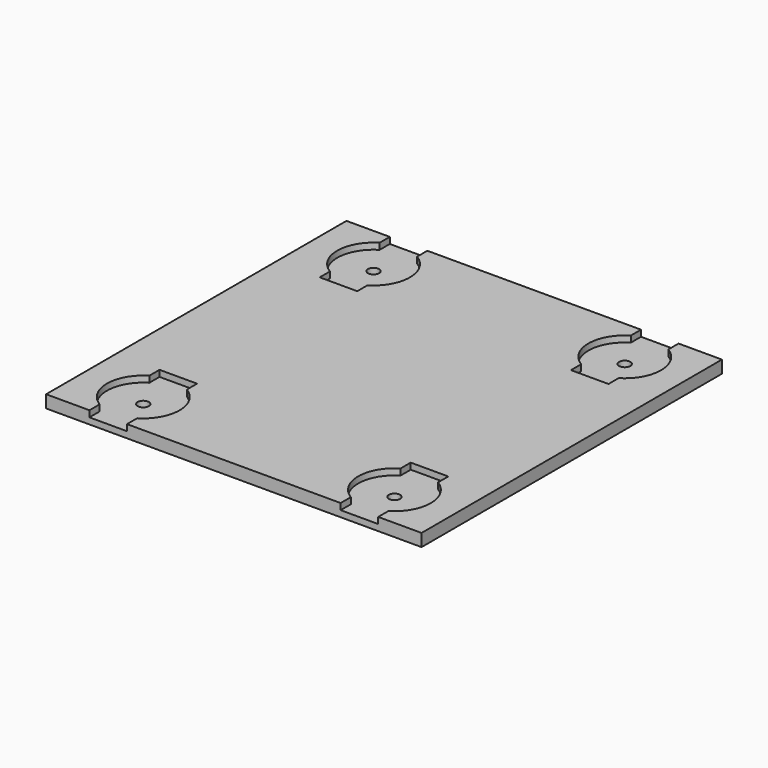
from build123d import *

# Parameters (mm, degrees)
SKETCH_W        = 60
SKETCH_H        = 60
PAD_DEPTH       = 2
POCKET001_DEPTH = 1
SKETCH005_R     = 0.9
POCKET002_DEPTH = 5


with BuildPart() as part:
    # Sketch → Pad (new body)
    with BuildSketch(Plane.XY):
        Rectangle(SKETCH_W, SKETCH_H)
    extrude(amount=PAD_DEPTH)

    # Sketch004 (on Face6 of Pad) → Pocket001 (cut)
    with BuildSketch(Plane.XY.offset(2)):
        with BuildLine():
            Line((-23.070984, -27.963869), (-23.070984, -30))
            Line((-23.070984, -30), (-17.070984, -30))
            Line((-17.070984, -30), (-17.070984, -27.963869))
            ThreePointArc((-17.070984, -27.963869), (-14.270984, -23), (-17.070984, -18.036131))
            Line((-17.070984, -16), (-17.070984, -18.036131))
            Line((-23.070984, -16), (-17.070984, -16))
            Line((-23.070984, -18.036131), (-23.070984, -16))
            ThreePointArc((-23.070984, -18.036131), (-25.870984, -23), (-23.070984, -27.963869))
        make_face()
        with BuildLine():
            Line((23.070984, -27.963869), (23.070984, -30))
            Line((23.070984, -30), (17.070984, -30))
            Line((17.070984, -30), (17.070984, -27.963869))
            ThreePointArc((17.070984, -18.036131), (14.270984, -23), (17.070984, -27.963869))
            Line((17.070984, -16), (17.070984, -18.036131))
            Line((23.070984, -16), (17.070984, -16))
            Line((23.070984, -18.036131), (23.070984, -16))
            ThreePointArc((23.070984, -27.963869), (25.870984, -23), (23.070984, -18.036131))
        make_face()
        with BuildLine():
            Line((-23.070984, 27.963869), (-23.070984, 30))
            Line((-23.070984, 30), (-17.070984, 30))
            Line((-17.070984, 30), (-17.070984, 27.963869))
            ThreePointArc((-17.070984, 18.036131), (-14.270984, 23), (-17.070984, 27.963869))
            Line((-17.070984, 16), (-17.070984, 18.036131))
            Line((-23.070984, 16), (-17.070984, 16))
            Line((-23.070984, 18.036131), (-23.070984, 16))
            ThreePointArc((-23.070984, 27.963869), (-25.870984, 23), (-23.070984, 18.036131))
        make_face()
        with BuildLine():
            Line((23.070984, 27.963869), (23.070984, 30))
            Line((23.070984, 30), (17.070984, 30))
            Line((17.070984, 30), (17.070984, 27.963869))
            ThreePointArc((17.070984, 27.963869), (14.270984, 23), (17.070984, 18.036131))
            Line((17.070984, 16), (17.070984, 18.036131))
            Line((23.070984, 16), (17.070984, 16))
            Line((23.070984, 18.036131), (23.070984, 16))
            ThreePointArc((23.070984, 18.036131), (25.870984, 23), (23.070984, 27.963869))
        make_face()
    extrude(amount=-POCKET001_DEPTH, mode=Mode.SUBTRACT)

    # Sketch005 (on Face4 of Pocket001) → Pocket002 (cut)
    with BuildSketch(Plane.XY.offset(2)):
        with Locations((-20.070984, -23)):
            Circle(SKETCH005_R)
        with Locations((20.070984, -23)):
            Circle(SKETCH005_R)
        with Locations((-20.070984, 23)):
            Circle(SKETCH005_R)
        with Locations((20.070984, 23)):
            Circle(SKETCH005_R)
    extrude(amount=-POCKET002_DEPTH, mode=Mode.SUBTRACT)


solid = part.part
